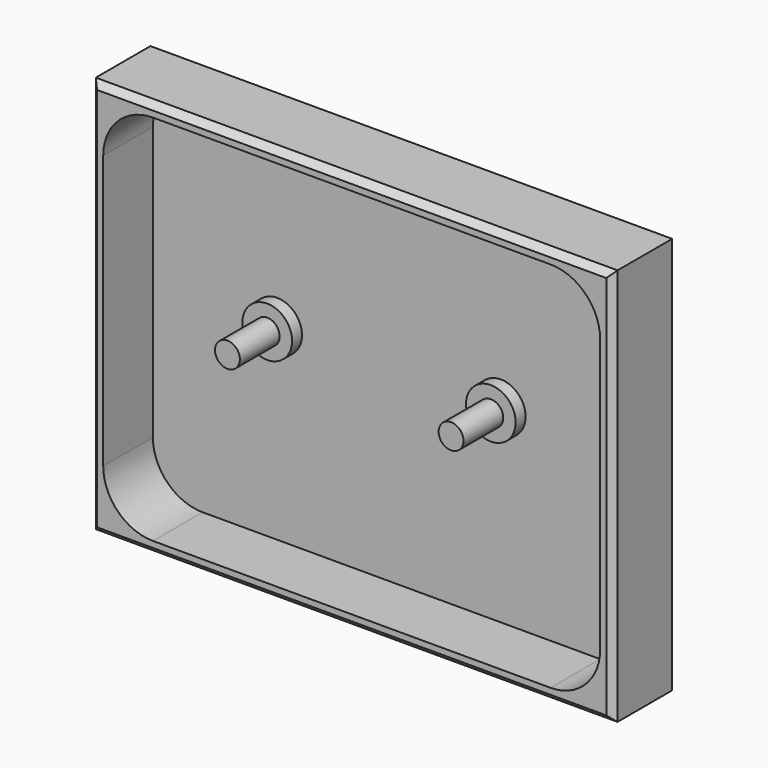
from build123d import *

# Parameters (mm, degrees)
F0_W     = 133.35
F0_H     = 101.6
F1_DEPTH = 19.05
F2_T     = -3.175
F3_R     = 6.35
F4_DEPTH = 3.175
F5_R     = 3.175
F6_DEPTH = 12.7
F7_R     = 3.175
F8_DEPTH = 12.7
F9_R     = 12.7
F10_SIZE = 1.6002


with BuildPart() as f1:
    # F0 (on Front) → F1 (new body)
    with BuildSketch(Plane.XZ):
        with Locations((66.675, 50.8)):
            Rectangle(F0_W, F0_H)
    extrude(amount=F1_DEPTH)

    # F2
    f2_openings = [f1.faces().sort_by_distance(p)[0] for p in [
        (66.675, -19.05, 50.8),
    ]]
    offset(amount=F2_T, openings=f2_openings)

    # F3 (on face) → F4 (join)
    with BuildSketch(Plane.XZ.offset(3.175)):
        with Locations((34.925, 51.2623339891)):
            Circle(F3_R)
        with Locations((92.0745080058, 51.4994725509)):
            Circle(F3_R)
    extrude(amount=F4_DEPTH)

    # F5 (on face) → F6 (join)
    with BuildSketch(Plane.XZ.offset(6.35)):
        with Locations((34.925, 51.2623339891)):
            Circle(F5_R)
    extrude(amount=F6_DEPTH)

    # F7 (on face) → F8 (join)
    with BuildSketch(Plane.XZ.offset(6.35)):
        with Locations((92.0745080058, 51.4994725509)):
            Circle(F7_R)
    extrude(amount=F8_DEPTH)

    # F9
    f9_edges = [f1.edges().sort_by_distance(p)[0] for p in [
        (3.175, -11.1125, 3.175),
        (3.175, -11.1125, 98.425),
        (130.175, -11.1125, 3.175),
        (130.175, -11.1125, 98.425),
    ]]
    fillet(f9_edges, radius=F9_R)

    # F10
    f10_edges = [f1.edges().sort_by_distance(p)[0] for p in [
        (133.35, -19.05, 50.8),
        (66.675, -19.05, 0),
        (0, -19.05, 50.8),
        (66.675, -19.05, 101.6),
    ]]
    chamfer(f10_edges, length=F10_SIZE)


solid = f1.part
